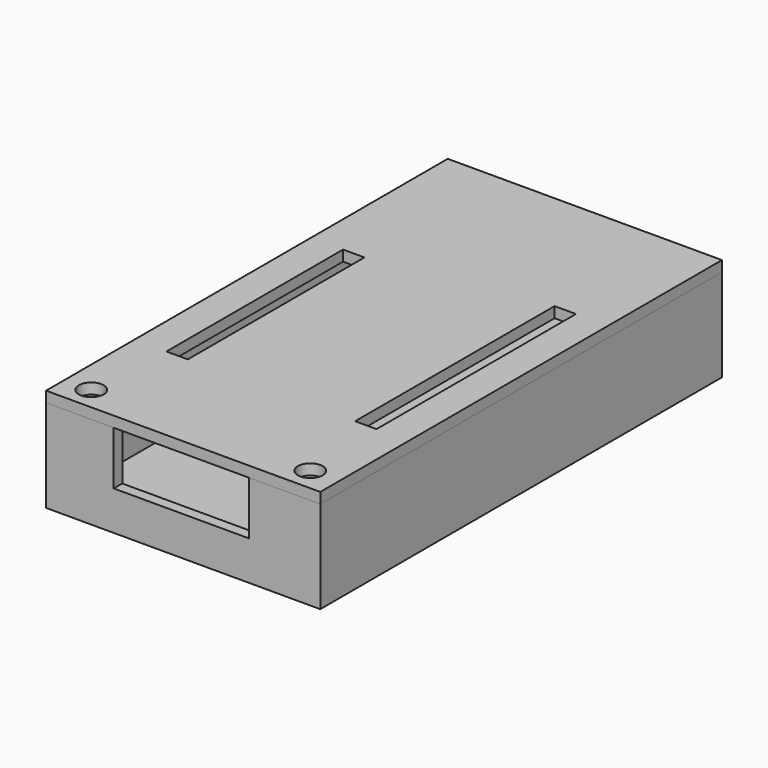
from build123d import *

# Parameters (mm, degrees)
BOX004_W          = 10
BOX004_H          = 3
BOX004_DEPTH      = 15
BOX003_W          = 38
BOX003_H          = 3
BOX003_DEPTH      = 15
BOX002_W          = 77
BOX002_H          = 141
BOX002_DEPTH      = 3
BOX001_W          = 71
BOX001_H          = 135
BOX001_DEPTH      = 23
BOX_W             = 77
BOX_H             = 141
BOX_DEPTH         = 23
BOX007_W          = 6
BOX007_H          = 70
BOX007_DEPTH      = 3
BOX006_W          = 6
BOX006_H          = 62
BOX006_DEPTH      = 3
CYLINDER001_R     = 3.5
CYLINDER001_DEPTH = 3
CYLINDER_R        = 3.5
CYLINDER_DEPTH    = 3
BOX005_W          = 77
BOX005_H          = 141
BOX005_DEPTH      = 3


with BuildPart() as box004:
    # Box004 → Box004 (new body)
    with BuildSketch(Plane(origin=(47, 138, 11), x_dir=(1, 0, 0), z_dir=(0, 0, 1))):
        with Locations((5, 1.5)):
            Rectangle(BOX004_W, BOX004_H)
    extrude(amount=BOX004_DEPTH)


with BuildPart() as box003:
    # Box003 → Box003 (new body)
    with BuildSketch(Plane(origin=(19, 0, 11), x_dir=(1, 0, 0), z_dir=(0, 0, 1))):
        with Locations((19, 1.5)):
            Rectangle(BOX003_W, BOX003_H)
    extrude(amount=BOX003_DEPTH)


with BuildPart() as box002:
    # Box002 → Box002 (new body)
    with BuildSketch(Plane.XY):
        with Locations((38.5, 70.5)):
            Rectangle(BOX002_W, BOX002_H)
    extrude(amount=BOX002_DEPTH)


with BuildPart() as b:
    # Box001 → Box001 (new body)
    with BuildSketch(Plane(origin=(3, 3, 0), x_dir=(1, 0, 0), z_dir=(0, 0, 1))):
        with Locations((35.5, 67.5)):
            Rectangle(BOX001_W, BOX001_H)
    extrude(amount=BOX001_DEPTH)


with BuildPart() as carcasa:
    # Box → Box (new body)
    with BuildSketch(Plane.XY):
        with Locations((38.5, 70.5)):
            Rectangle(BOX_W, BOX_H)
    extrude(amount=BOX_DEPTH)

    # Cut: cut b
    add(b.part, mode=Mode.SUBTRACT)


with BuildPart() as carcasa_1:
    # Cut placement: moved
    add(carcasa.part.moved(Location((0, 0, 3))))

    # Fusion: union Box002
    add(box002.part)

    # Cut001: cut Box003
    add(box003.part, mode=Mode.SUBTRACT)

    # Cut002: cut Box004
    add(box004.part, mode=Mode.SUBTRACT)


with BuildPart() as obj1:
    # Box007 → Box007 (new body)
    with BuildSketch(Plane(origin=(62, 31, 26), x_dir=(1, 0, 0), z_dir=(0, 0, 1))):
        with Locations((3, 35)):
            Rectangle(BOX007_W, BOX007_H)
    extrude(amount=BOX007_DEPTH)


with BuildPart() as obj2:
    # Box006 → Box006 (new body)
    with BuildSketch(Plane(origin=(9, 31, 26), x_dir=(1, 0, 0), z_dir=(0, 0, 1))):
        with Locations((3, 31)):
            Rectangle(BOX006_W, BOX006_H)
    extrude(amount=BOX006_DEPTH)

    # Fusion002: union obj1
    add(obj1.part)


with BuildPart() as switch2:
    # Cylinder001 → Cylinder001 (new body)
    with BuildSketch(Plane(origin=(69, 5.5, 26), x_dir=(1, 0, 0), z_dir=(0, 0, 1))):
        Circle(CYLINDER001_R)
    extrude(amount=CYLINDER001_DEPTH)


with BuildPart() as switches:
    # Cylinder → Cylinder (new body)
    with BuildSketch(Plane(origin=(7.5, 5.5, 26), x_dir=(1, 0, 0), z_dir=(0, 0, 1))):
        Circle(CYLINDER_R)
    extrude(amount=CYLINDER_DEPTH)

    # Fusion001: union switch2
    add(switch2.part)


with BuildPart() as switches_1:
    # Fusion001 placement: moved
    add(switches.part.moved(Location((0, 1, 0))))


with BuildPart() as tapa:
    # Box005 → Box005 (new body)
    with BuildSketch(Plane.XY.offset(26)):
        with Locations((38.5, 70.5)):
            Rectangle(BOX005_W, BOX005_H)
    extrude(amount=BOX005_DEPTH)

    # Cut003: cut switches
    add(switches_1.part, mode=Mode.SUBTRACT)

    # Cut004: cut obj2
    add(obj2.part, mode=Mode.SUBTRACT)


solid = Compound([carcasa_1.part, tapa.part])
